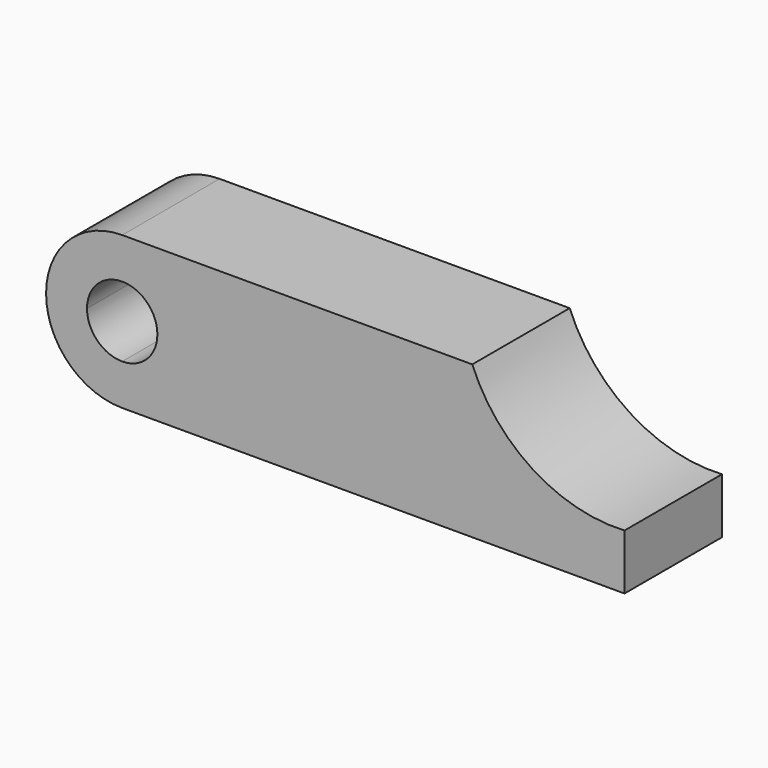
from build123d import *

# Parameters (mm, degrees)
F1_DEPTH = 25.4


with BuildPart() as f1:
    # F0 (on Front) → F1 (new body)
    with BuildSketch(Plane.XZ):
        with BuildLine():
            Line((0, 8.5367389983), (0, 0))
            Line((0, 0), (104.775, 0))
            Line((104.775, 0), (104.775, 11.5723142873))
            ThreePointArc((104.775, 11.5723142873), (85.6576925005, 16.5593201652), (73.025, 31.75))
            Line((73.025, 31.75), (0, 31.75))
            Line((0, 31.75), (0, 23.2132610017))
            ThreePointArc((0, 23.2132610017), (5.1889341164, 21.0639341164), (7.3382610017, 15.875))
            ThreePointArc((7.3382610017, 15.875), (5.1889341164, 10.6860658836), (0, 8.5367389983))
        make_face()
        with BuildLine():
            ThreePointArc((0, 31.75), (-11.2253201513, 27.1003201513), (-15.875, 15.875))
            Line((-15.875, 15.875), (-7.3382610017, 15.875))
            ThreePointArc((-7.3382610017, 15.875), (-5.1889341164, 21.0639341164), (0, 23.2132610017))
            Line((0, 23.2132610017), (0, 31.75))
        make_face()
        with BuildLine():
            ThreePointArc((-15.875, 15.875), (-11.2253201513, 4.6496798487), (0, 0))
            Line((0, 0), (0, 8.5367389983))
            ThreePointArc((0, 8.5367389983), (-5.1889341164, 10.6860658836), (-7.3382610017, 15.875))
            Line((-7.3382610017, 15.875), (-15.875, 15.875))
        make_face()
    extrude(amount=F1_DEPTH)


solid = f1.part
